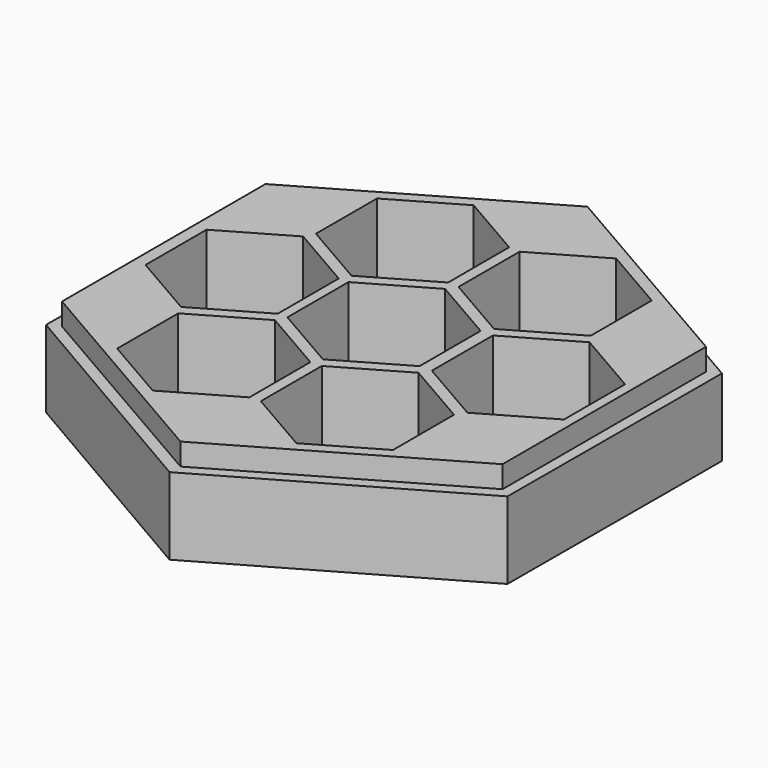
from build123d import *

# Parameters (mm, degrees)
F1_DEPTH = 14
F2_DEPTH = 18
F3_DEPTH = 4


with BuildPart() as f1:
    # F0 (on Top) → F1 (new body)
    with BuildSketch(Plane.XY):
        Polygon((42.077698, 24.113634), (0.155829, 48.497172), (-41.921869, 24.383538), (-42.077698, -24.113634), (-0.155829, -48.497172), (41.921869, -24.383538), align=None)
        Polygon((-40, 23.094011), (0, 46.188022), (40, 23.094011), (40, -23.094011), (0, -46.188022), (-40, -23.094011), align=None, mode=Mode.SUBTRACT)
    extrude(amount=F1_DEPTH)

    # F0 (on Top) → F2 (join)
    with BuildSketch(Plane.XY):
        Polygon((40, 23.094011), (0, 46.188022), (-40, 23.094011), (-40, -23.094011), (0, -46.188022), (40, -23.094011), align=None)
        Polygon((-12.855593, -8.712208), (-0.855593, -15.640412), (-0.855593, -29.496818), (-12.855593, -36.425021), (-24.855593, -29.496818), (-24.855593, -15.640412), align=None, mode=Mode.SUBTRACT)
        Polygon((13.144407, -8.6083), (25.144407, -15.536503), (25.144407, -29.392909), (13.144407, -36.321113), (1.144407, -29.392909), (1.144407, -15.536503), align=None, mode=Mode.SUBTRACT)
        Polygon((-25.765606, 13.856406), (-13.765606, 6.928203), (-13.765606, -6.928203), (-25.765606, -13.856406), (-37.765606, -6.928203), (-37.765606, 6.928203), align=None, mode=Mode.SUBTRACT)
        Polygon((-12.882803, 36.440731), (-0.882803, 29.512527), (-0.882803, 15.656121), (-12.882803, 8.727918), (-24.882803, 15.656121), (-24.882803, 29.512527), align=None, mode=Mode.SUBTRACT)
        Polygon((0, 13.856406), (12, 6.928203), (12, -6.928203), (0, -13.856406), (-12, -6.928203), (-12, 6.928203), align=None, mode=Mode.SUBTRACT)
        Polygon((13.117197, 36.305403), (25.117197, 29.3772), (25.117197, 15.520794), (13.117197, 8.59259), (1.117197, 15.520794), (1.117197, 29.3772), align=None, mode=Mode.SUBTRACT)
        Polygon((26.234394, 13.856406), (38.234394, 6.928203), (38.234394, -6.928203), (26.234394, -13.856406), (14.234394, -6.928203), (14.234394, 6.928203), align=None, mode=Mode.SUBTRACT)
    extrude(amount=F2_DEPTH)

    # F0 (on Top) → F3 (join)
    with BuildSketch(Plane.XY):
        Polygon((25.117197, 15.520794), (25.117197, 29.3772), (13.117197, 36.305403), (1.117197, 29.3772), (1.117197, 15.520794), (13.117197, 8.59259), align=None)
        Polygon((-0.882803, 15.656121), (-0.882803, 29.512527), (-12.882803, 36.440731), (-24.882803, 29.512527), (-24.882803, 15.656121), (-12.882803, 8.727918), align=None)
        Polygon((-13.765606, -6.928203), (-13.765606, 6.928203), (-25.765606, 13.856406), (-37.765606, 6.928203), (-37.765606, -6.928203), (-25.765606, -13.856406), align=None)
        Polygon((12, -6.928203), (12, 6.928203), (0, 13.856406), (-12, 6.928203), (-12, -6.928203), (0, -13.856406), align=None)
        Polygon((38.234394, -6.928203), (38.234394, 6.928203), (26.234394, 13.856406), (14.234394, 6.928203), (14.234394, -6.928203), (26.234394, -13.856406), align=None)
        Polygon((25.144407, -29.392909), (25.144407, -15.536503), (13.144407, -8.6083), (1.144407, -15.536503), (1.144407, -29.392909), (13.144407, -36.321113), align=None)
        Polygon((-0.855593, -29.496818), (-0.855593, -15.640412), (-12.855593, -8.712208), (-24.855593, -15.640412), (-24.855593, -29.496818), (-12.855593, -36.425021), align=None)
    extrude(amount=F3_DEPTH)


solid = f1.part
